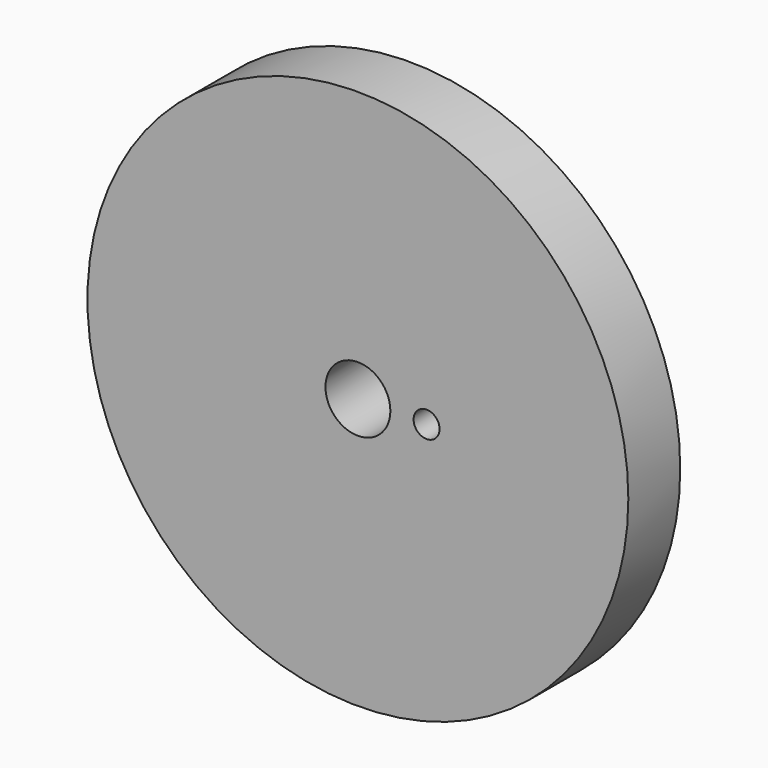
from build123d import *

# Parameters (mm, degrees)
F0_R          = 25
F1_DEPTH      = 3
F1_DEPTH_BACK = 3
F2_R          = 3
F2_R_2        = 1.2
F3_DEPTH      = 6.001


with BuildPart() as f1:
    # F0 (on Front) → F1 (new body, two sides)
    with BuildSketch(Plane.XZ) as f1_sk:
        Circle(F0_R)
    extrude(amount=F1_DEPTH)
    extrude(f1_sk.sketch, amount=-F1_DEPTH_BACK)

    # F2 (on face) → F3 (cut, through all)
    with BuildSketch(Plane.XZ.offset(3)):
        Circle(F2_R)
        with Locations((6.35, 0)):
            Circle(F2_R_2)
    extrude(amount=-F3_DEPTH, mode=Mode.SUBTRACT)


solid = f1.part
